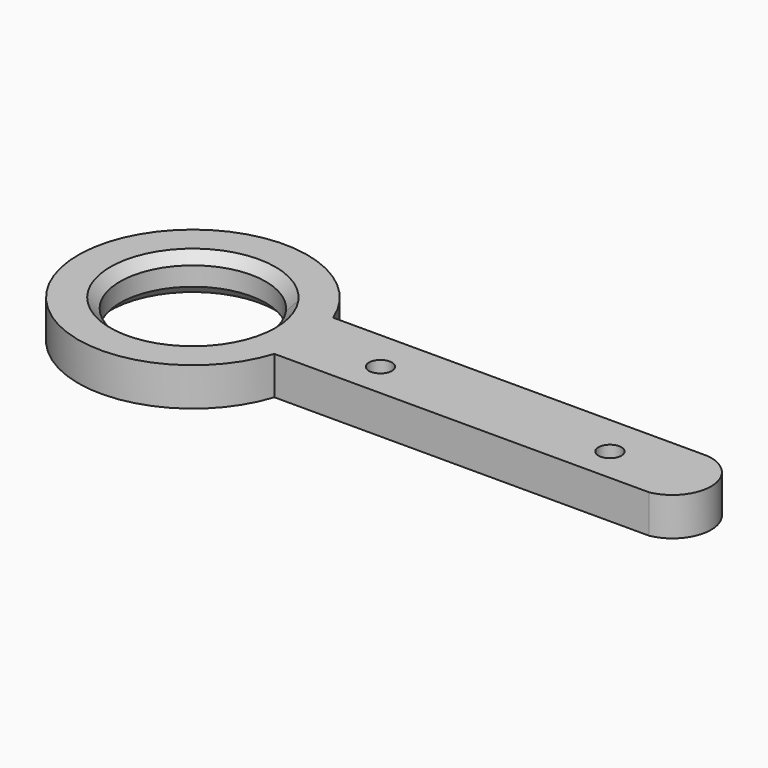
from build123d import *

# Parameters (mm, degrees)
F0_R     = 1.5
F1_DEPTH = 5
F2_SIZE  = 1.27


with BuildPart() as f1:
    # F0 (on Top) → F1 (new body)
    with BuildSketch(Plane.XY):
        with BuildLine():
            Line((-67.1149054365, 5.4482991469), (-60.9536656773, 5.4482991469))
            ThreePointArc((-60.9536656773, 5.4482991469), (-89.9189816406, -0.4755281134), (-60.6364599927, -4.5517008531))
            Line((-60.6364599927, -4.5517008531), (-66.5607646656, -4.5517008531))
            ThreePointArc((-66.5607646656, -4.5517008531), (-84.4382310461, -0.5270105536), (-67.1149054365, 5.4482991469))
        make_face()
        with BuildLine():
            ThreePointArc((-59.9291217554, 0), (-60.1874829455, 2.7718970869), (-60.9536656773, 5.4482991469))
            Line((-60.9536656773, 5.4482991469), (-67.1149054365, 5.4482991469))
            ThreePointArc((-67.1149054365, 5.4482991469), (-65.8409176364, 2.855485691), (-65.4028217554, 0))
            ThreePointArc((-65.4028217554, 0), (-65.69684554, -2.3483405013), (-66.5607646656, -4.5517008531))
            Line((-66.5607646656, -4.5517008531), (-60.6364599927, -4.5517008531))
            ThreePointArc((-60.6364599927, -4.5517008531), (-60.1070112283, -2.3031667351), (-59.9291217554, 0))
        make_face()
        with BuildLine():
            ThreePointArc((-11.6302119568, -4.5517008531), (-7.513293419, 0.6092107253), (-12.0040895417, 5.4482991469))
            Line((-12.0040895417, 5.4482991469), (-60.9536656773, 5.4482991469))
            ThreePointArc((-60.9536656773, 5.4482991469), (-60.1874829455, 2.7718970869), (-59.9291217554, 0))
            ThreePointArc((-59.9291217554, 0), (-60.1070112283, -2.3031667351), (-60.6364599927, -4.5517008531))
            Line((-60.6364599927, -4.5517008531), (-11.6302119568, -4.5517008531))
        make_face()
        with Locations((-50.4028217554, 0)):
            Circle(F0_R, mode=Mode.SUBTRACT)
        with Locations((-20.4028217554, 0)):
            Circle(F0_R, mode=Mode.SUBTRACT)
    extrude(amount=F1_DEPTH)

    # F2
    f2_edges = [f1.edges().sort_by_distance(p)[0] for p in [
        (-82.740738, -5.448299, 5),
        (-82.740738, -5.448299, 0),
    ]]
    chamfer(f2_edges, length=F2_SIZE)


solid = f1.part
